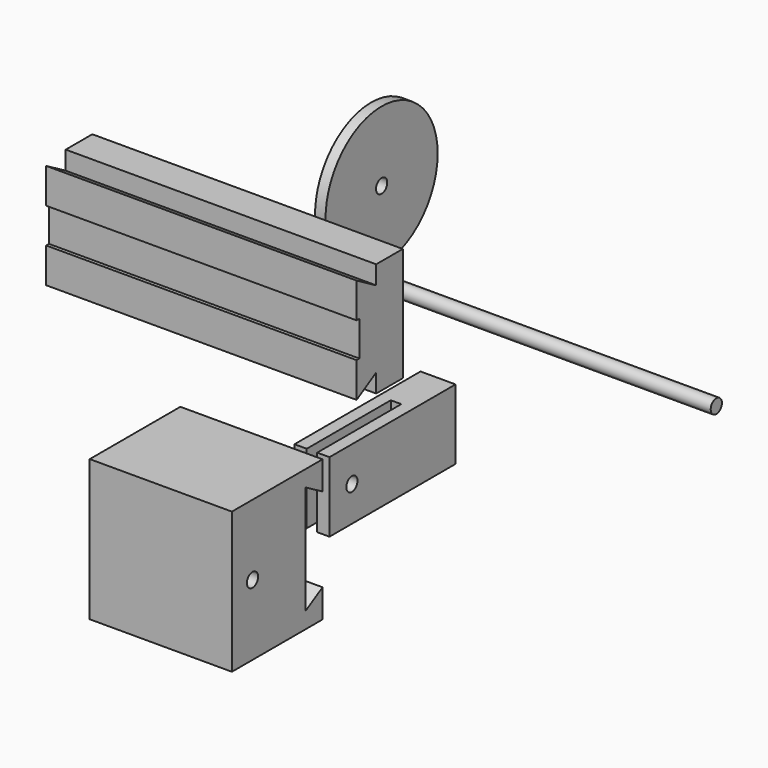
from build123d import *

# Parameters (mm, degrees)
F0_W      = 88.67
F0_H      = 32.5
F1_DEPTH  = 16.5
F2_W      = 40.6
F2_H      = 40.27
F3_DEPTH  = 32.35
F5_DEPTH  = 40.6
F7_DEPTH  = 88.67
F8_W      = 88.67
F8_H      = 10
F9_DEPTH  = 1
F11_D     = 3
F11_DEPTH = 6.8
F11_TIP   = 0.9012909285
F12_D     = 4
F12_DEPTH = 20
F12_TIP   = 1.2017212381
F13_W     = 45
F13_H     = 20
F14_DEPTH = 10
F15_W     = 3
F15_H     = 30
F16_DEPTH = 20
F17_D     = 4
F18_R     = 2
F19_DEPTH = 100
F20_R     = 20
F21_DEPTH = 3
F22_D     = 4


with BuildPart() as f1:
    # F0 (on Front) → F1 (new body)
    with BuildSketch(Plane.XZ):
        with Locations((-3.6818569219, 34.2264404893)):
            Rectangle(F0_W, F0_H)
    extrude(amount=F1_DEPTH)

    # F6 (on face) → F7 (cut, through all)
    with BuildSketch(Plane.YZ.offset(40.6531430781)):
        Polygon((-16.5, 50.4764404893), (-16.5, 49.2264404893), (-9.5, 45.184988605), (-9.5, 50.4764404893), align=None)
        Polygon((-9.5, 23.2678923736), (-16.5, 19.2264404893), (-16.5, 17.9764404893), (-9.5, 17.9764404893), align=None)
    extrude(amount=-F7_DEPTH, mode=Mode.SUBTRACT)

    # F8 (on face) → F9 (cut)
    with BuildSketch(Plane.XZ.offset(16.5)):
        with Locations((-3.6818569219, 34.2264404893)):
            Rectangle(F8_W, F8_H)
    extrude(amount=-F9_DEPTH, mode=Mode.SUBTRACT)


with BuildPart() as f3:
    # F2 (on Front) → F3 (new body)
    with BuildSketch(Plane.XZ):
        with Locations((-2.5709411383, -30.0011265779)):
            Rectangle(F2_W, F2_H)
    extrude(amount=F3_DEPTH)

    # F4 (on face) → F5 (cut, through all)
    with BuildSketch(Plane.YZ.offset(17.7290588617)):
        Polygon((0, -42.0370249627), (0, -17.965228193), (-6, -14.5011265779), (-6, -45.5011265779), align=None)
    extrude(amount=-F5_DEPTH, mode=Mode.SUBTRACT)

    # F11
    with Locations(Plane(origin=(0, 0, -50.1361265779), x_dir=(1, 0, 0), z_dir=(0, 0, -1))):
        with Locations((-2.5709411383, 3), (12.4290588617, 3), (-17.5709411383, 3)):
            Hole(F11_D / 2, depth=F11_DEPTH)
            with Locations((0, 0, -(F11_DEPTH + F11_TIP / 2))):  # 118° drill point
                Cone(0, F11_D / 2, F11_TIP, mode=Mode.SUBTRACT)

    # F12
    with Locations(Plane.YZ.offset(17.7290588617)):
        with Locations((-25, -30.0011265779)):
            Hole(F12_D / 2, depth=F12_DEPTH)
            with Locations((0, 0, -(F12_DEPTH + F12_TIP / 2))):  # 118° drill point
                Cone(0, F12_D / 2, F12_TIP, mode=Mode.SUBTRACT)


with BuildPart() as f14:
    # F13 (on Right) → F14 (new body)
    with BuildSketch(Plane.YZ):
        with Locations((34.6452900767, -26.7774888873)):
            Rectangle(F13_W, F13_H)
    extrude(amount=F14_DEPTH)

    # F15 (on face) → F16 (cut, through all)
    with BuildSketch(Plane(origin=(0, 0, -36.7774888873), x_dir=(1, 0, 0), z_dir=(0, 0, -1))):
        with Locations((5, -27.1452900767)):
            Rectangle(F15_W, F15_H)
    extrude(amount=-F16_DEPTH, mode=Mode.SUBTRACT)

    # F17 (through all)
    with Locations(Plane(origin=(0, 0, 0), x_dir=(0, 1, 0), z_dir=(-1, 0, 0))):
        with Locations((20.1452900767, 26.7774888873)):
            Hole(F17_D / 2)


with BuildPart() as f19:
    # F18 (on Right) → F19 (new body)
    with BuildSketch(Plane.YZ):
        with Locations((37.7309694886, 14.9105554447)):
            Circle(F18_R)
    extrude(amount=F19_DEPTH)


with BuildPart() as f21:
    # F20 (on Right) → F21 (new body)
    with BuildSketch(Plane.YZ):
        with Locations((39.5030267537, 38.0307175219)):
            Circle(F20_R)
    extrude(amount=F21_DEPTH)

    # F22 (through all)
    with Locations(Plane(origin=(0, 0, 0), x_dir=(0, 1, 0), z_dir=(-1, 0, 0))):
        with Locations((39.5030267537, -38.0307175219)):
            Hole(F22_D / 2)


solid = Compound([f1.part, f3.part, f14.part, f19.part, f21.part])
